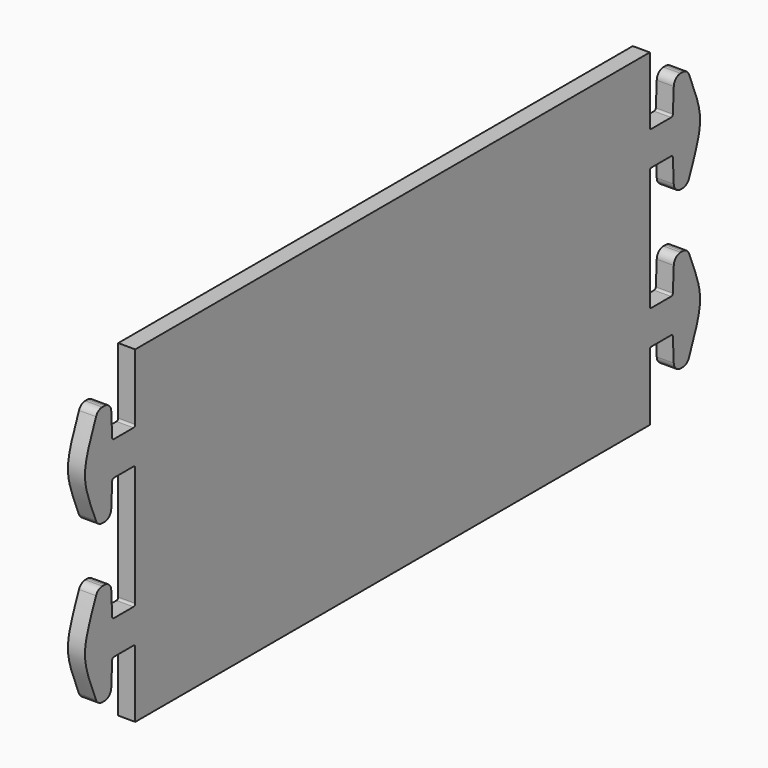
from build123d import *

# Parameters (mm, degrees)
F1_DEPTH = 12.7


with BuildPart() as f1:
    # F0 (on Right) → F1 (new body)
    with BuildSketch(Plane.YZ):
        with BuildLine():
            ThreePointArc((-274.750656, 90.78483), (-276.709945, 95.081547), (-281.093691, 96.8375))
            Line((-281.093691, 96.8375), (-283.102754, 96.8375))
            ThreePointArc((-283.102754, 96.8375), (-286.627633, 95.76933), (-288.966632, 92.924185))
            add(Edge.make_bspline(
                [(-288.966632, 92.924185), (-302.669456, 59.948361), (-302.669456, 57.526639), (-288.966632, 24.550815)],
                knots=[2.702454, 2.702454, 2.702454, 2.702454, 73.497546, 73.497546, 73.497546, 73.497546], degree=3))
            ThreePointArc((-288.966632, 24.550815), (-286.627633, 21.70567), (-283.102754, 20.6375))
            Line((-283.102754, 20.6375), (-281.093691, 20.6375))
            ThreePointArc((-281.093691, 20.6375), (-276.709945, 22.393453), (-274.750656, 26.69017))
            Line((-274.750656, 26.69017), (-273.91468, 44.524332))
            ThreePointArc((-273.91468, 44.524332), (-273.424857, 45.598512), (-272.328921, 46.0375))
            Line((-272.328921, 46.0375), (-254, 46.0375))
            ThreePointArc((-254, 46.0375), (-252.877468, 45.572532), (-252.4125, 44.45))
            Line((-252.4125, 44.45), (-252.4125, -44.45))
            ThreePointArc((-252.4125, -44.45), (-252.877468, -45.572532), (-254, -46.0375))
            Line((-254, -46.0375), (-272.328921, -46.0375))
            ThreePointArc((-272.328921, -46.0375), (-273.424857, -45.598512), (-273.91468, -44.524332))
            Line((-273.91468, -44.524332), (-274.750656, -26.69017))
            ThreePointArc((-274.750656, -26.69017), (-276.709945, -22.393453), (-281.093691, -20.6375))
            Line((-281.093691, -20.6375), (-283.102754, -20.6375))
            ThreePointArc((-283.102754, -20.6375), (-286.627633, -21.70567), (-288.966632, -24.550815))
            add(Edge.make_bspline(
                [(-288.966632, -92.924185), (-302.669456, -59.948361), (-302.669456, -57.526639), (-288.966632, -24.550815)],
                knots=[2.702454, 2.702454, 2.702454, 2.702454, 73.497546, 73.497546, 73.497546, 73.497546], degree=3))
            ThreePointArc((-288.966632, -92.924185), (-286.627633, -95.76933), (-283.102754, -96.8375))
            Line((-283.102754, -96.8375), (-281.093691, -96.8375))
            ThreePointArc((-281.093691, -96.8375), (-276.709945, -95.081547), (-274.750656, -90.78483))
            Line((-274.750656, -90.78483), (-273.91468, -72.950668))
            ThreePointArc((-273.91468, -72.950668), (-273.424857, -71.876488), (-272.328921, -71.4375))
            Line((-272.328921, -71.4375), (-254, -71.4375))
            ThreePointArc((-254, -71.4375), (-252.877468, -71.902468), (-252.4125, -73.025))
            Line((-252.4125, -73.025), (-252.4125, -122.2375))
            Line((-252.4125, -122.2375), (227.0125, -122.2375))
            Line((227.0125, -122.2375), (227.0125, -73.025))
            ThreePointArc((227.0125, -73.025), (227.477468, -71.902468), (228.6, -71.4375))
            Line((228.6, -71.4375), (246.928921, -71.4375))
            ThreePointArc((246.928921, -71.4375), (248.024857, -71.876488), (248.51468, -72.950668))
            Line((248.51468, -72.950668), (249.350656, -90.78483))
            ThreePointArc((249.350656, -90.78483), (251.309945, -95.081547), (255.693691, -96.8375))
            Line((255.693691, -96.8375), (257.702754, -96.8375))
            ThreePointArc((257.702754, -96.8375), (261.227633, -95.76933), (263.566632, -92.924185))
            add(Edge.make_bspline(
                [(263.566632, -92.924185), (277.269456, -59.948361), (277.269456, -57.526639), (263.566632, -24.550815)],
                knots=[2.702454, 2.702454, 2.702454, 2.702454, 73.497546, 73.497546, 73.497546, 73.497546], degree=3))
            ThreePointArc((263.566632, -24.550815), (261.227633, -21.70567), (257.702754, -20.6375))
            Line((257.702754, -20.6375), (255.693691, -20.6375))
            ThreePointArc((255.693691, -20.6375), (251.309945, -22.393453), (249.350656, -26.69017))
            Line((249.350656, -26.69017), (248.51468, -44.524332))
            ThreePointArc((248.51468, -44.524332), (248.024857, -45.598512), (246.928921, -46.0375))
            Line((246.928921, -46.0375), (228.6, -46.0375))
            ThreePointArc((228.6, -46.0375), (227.477468, -45.572532), (227.0125, -44.45))
            Line((227.0125, -44.45), (227.0125, 44.45))
            ThreePointArc((227.0125, 44.45), (227.477468, 45.572532), (228.6, 46.0375))
            Line((228.6, 46.0375), (246.928921, 46.0375))
            ThreePointArc((246.928921, 46.0375), (248.024857, 45.598512), (248.51468, 44.524332))
            Line((248.51468, 44.524332), (249.350656, 26.69017))
            ThreePointArc((249.350656, 26.69017), (251.309945, 22.393453), (255.693691, 20.6375))
            Line((255.693691, 20.6375), (257.702754, 20.6375))
            ThreePointArc((257.702754, 20.6375), (261.227633, 21.70567), (263.566632, 24.550815))
            add(Edge.make_bspline(
                [(263.566632, 92.924185), (277.269456, 59.948361), (277.269456, 57.526639), (263.566632, 24.550815)],
                knots=[2.702454, 2.702454, 2.702454, 2.702454, 73.497546, 73.497546, 73.497546, 73.497546], degree=3))
            ThreePointArc((263.566632, 92.924185), (261.227633, 95.76933), (257.702754, 96.8375))
            Line((257.702754, 96.8375), (255.693691, 96.8375))
            ThreePointArc((255.693691, 96.8375), (251.309945, 95.081547), (249.350656, 90.78483))
            Line((249.350656, 90.78483), (248.51468, 72.950668))
            ThreePointArc((248.51468, 72.950668), (248.024857, 71.876488), (246.928921, 71.4375))
            Line((246.928921, 71.4375), (228.6, 71.4375))
            ThreePointArc((228.6, 71.4375), (227.477468, 71.902468), (227.0125, 73.025))
            Line((227.0125, 73.025), (227.0125, 122.2375))
            Line((227.0125, 122.2375), (-252.4125, 122.2375))
            Line((-252.4125, 122.2375), (-252.4125, 73.025))
            ThreePointArc((-252.4125, 73.025), (-252.877468, 71.902468), (-254, 71.4375))
            Line((-254, 71.4375), (-272.328921, 71.4375))
            ThreePointArc((-272.328921, 71.4375), (-273.424857, 71.876488), (-273.91468, 72.950668))
            Line((-273.91468, 72.950668), (-274.750656, 90.78483))
        make_face()
    extrude(amount=F1_DEPTH)


solid = f1.part
